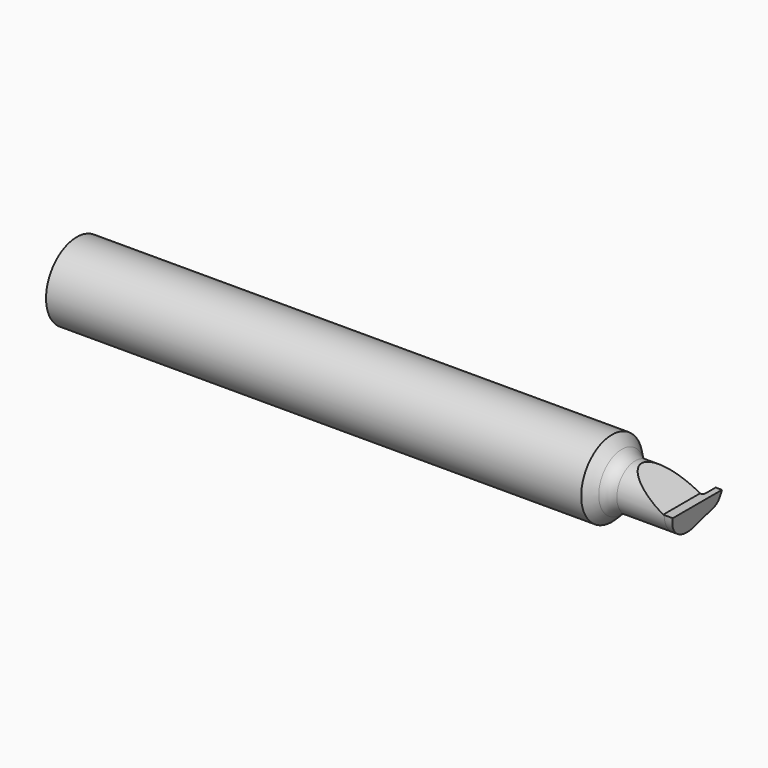
from build123d import *

# Parameters (mm, degrees)
F3_DEPTH = 12.7
F5_DEPTH = 1.5875
F7_DEPTH = 12.7


with BuildPart() as f1:
    # F0 (on Top) → F1 (revolve)
    with BuildSketch(Plane.XY):
        with BuildLine():
            Line((-101.6, 0), (0, 0))
            Line((0, 0), (0, 6.35))
            Line((0, 6.35), (-1.0414, 6.35))
            Line((-1.0414, 6.35), (-1.0414, 4.191))
            ThreePointArc((-1.0414, 4.191), (-1.152992, 3.921592), (-1.4224, 3.81))
            Line((-1.4224, 3.81), (-9.251272, 3.81))
            ThreePointArc((-9.251272, 3.81), (-10.466292, 4.051682), (-11.496336, 4.739936))
            Line((-11.496336, 4.739936), (-13.1064, 6.35))
            Line((-13.1064, 6.35), (-101.6, 6.35))
            Line((-101.6, 6.35), (-101.6, 0))
        make_face()
    revolve(axis=Axis((-50.8, 0, 0), (1, 0, 0)))

    # F2 (on Front) → F3 (cut, symmetric)
    with BuildSketch(Plane.XZ):
        Polygon((-1.5875, 0), (0, 0), (0, 6.35), (-12.586023, 6.35), align=None)
    extrude(amount=F3_DEPTH, both=True, mode=Mode.SUBTRACT)

    # F4 (on face) → F5 (cut)
    with BuildSketch(Plane.YZ):
        with BuildLine():
            Line((-6.604, 0), (-6.604, -6.604))
            Line((-6.604, -6.604), (6.35, -6.604))
            Line((6.35, -6.604), (6.35, 0))
            Line((6.35, 0), (6.327862, -0.253033))
            Line((6.327862, -0.253033), (6.096889, -1.115039))
            ThreePointArc((6.096889, -1.115039), (5.733909, -1.776663), (5.106439, -2.195926))
            Line((5.106439, -2.195926), (1.303097, -3.580229))
            ThreePointArc((1.303097, -3.580229), (-2.185326, -3.120969), (-3.81, 0))
            Line((-3.81, 0), (-6.604, 0))
        make_face()
        with BuildLine():
            Line((-6.604, 0), (-6.604, -6.604))
            Line((-6.604, -6.604), (6.35, -6.604))
            Line((6.35, -6.604), (6.35, 0))
            Line((6.35, 0), (6.327862, -0.253033))
            Line((6.327862, -0.253033), (6.096889, -1.115039))
            ThreePointArc((6.096889, -1.115039), (5.733909, -1.776663), (5.106439, -2.195926))
            Line((5.106439, -2.195926), (1.303097, -3.580229))
            ThreePointArc((1.303097, -3.580229), (-2.185326, -3.120969), (-3.81, 0))
            Line((-3.81, 0), (-6.604, 0))
        make_face()
    extrude(amount=-F5_DEPTH, mode=Mode.SUBTRACT)

    # F6 (on Front) → F7 (cut, symmetric)
    with BuildSketch(Plane.XZ):
        Polygon((0, -4.24096), (0, 0), (-0.747796, -4.24096), align=None)
    extrude(amount=F7_DEPTH, both=True, mode=Mode.SUBTRACT)


solid = f1.part
